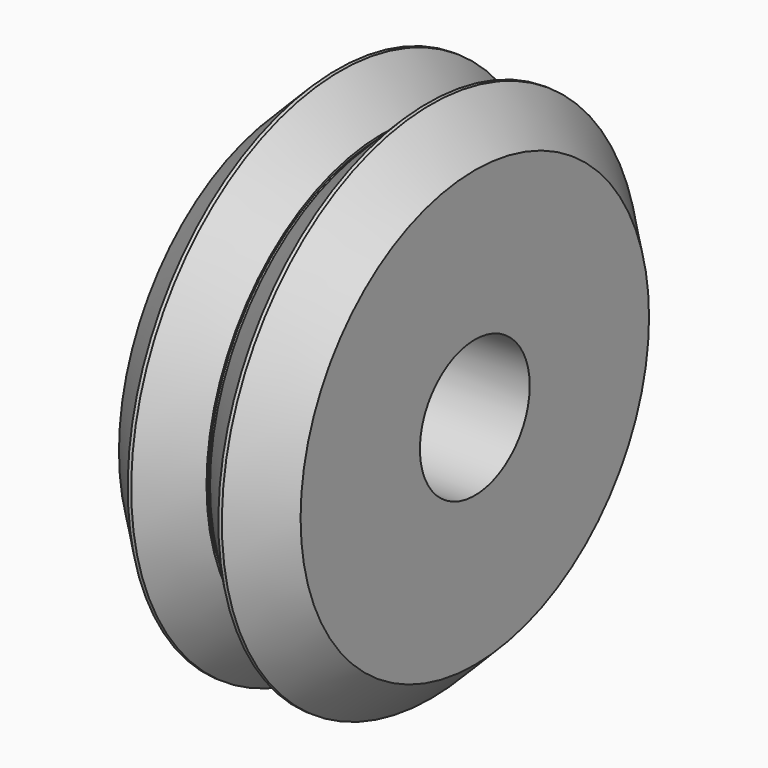
from build123d import *

# Parameters (mm, degrees)
F0_R     = 22.86
F0_R_2   = 5.99948
F1_DEPTH = 7.9375


with BuildPart() as f1:
    # F0 (on Right) → F1 (new body, symmetric)
    with BuildSketch(Plane.YZ):
        Circle(F0_R)
        Circle(F0_R_2, mode=Mode.SUBTRACT)
    extrude(amount=F1_DEPTH, both=True)

    # F3: sweep along a path in F3_path
    with BuildLine(Plane(origin=(7.9375, 22.86, 0), x_dir=(0, 0, -1), z_dir=(-1, 0, 0))) as f3_path:
        CenterArc((0, 22.86), 22.86, 0, 360)
    # F2 (on Top) → F3 (sweep, cut)
    with BuildSketch(Plane.XY):
        Polygon((-4.1148, -22.86), (-7.9375, -19.0373), (-7.9375, -22.86), align=None)
        Polygon((-0.1524, -19.2024), (-3.81, -22.86), (3.81, -22.86), (0.1524, -19.2024), (0.1524, -19.0102346241), (0.0172294403, -19.0102346241), (-0.0172294403, -19.0102346241), (-0.1524, -19.0102346241), align=None)
        Polygon((7.9375, -19.0373), (4.1148, -22.86), (7.9375, -22.86), align=None)
    sweep(path=f3_path.line, mode=Mode.SUBTRACT)


solid = f1.part
